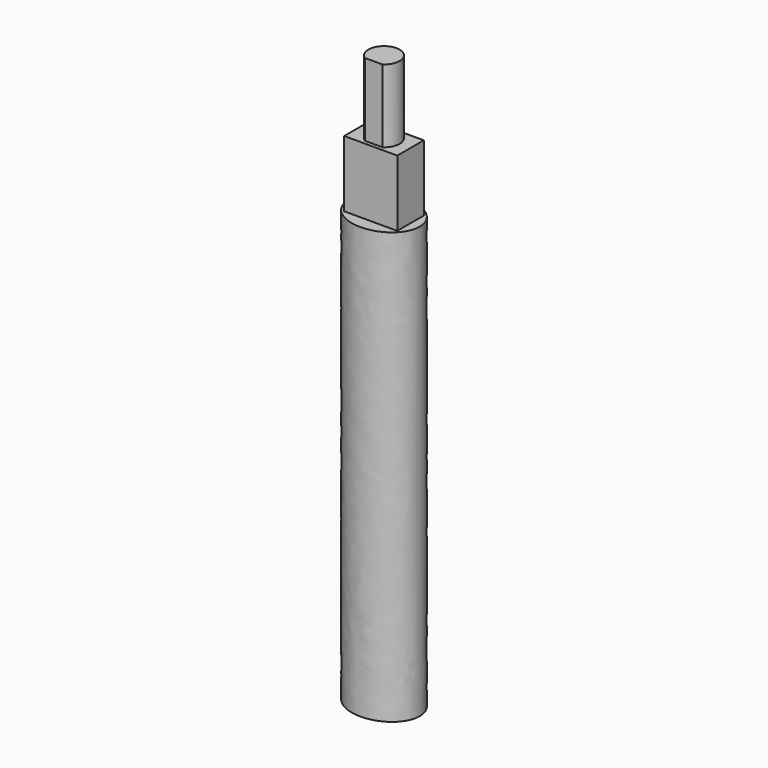
from build123d import *

# Parameters (mm, degrees)
F1_DEPTH = 65
F2_W     = 8
F2_H     = 5
F3_DEPTH = 10
F4_R     = 2.35
F5_DEPTH = 11
F7_DEPTH = 11


with BuildPart() as f1:
    # F0 (on Top) → F1 (new body)
    with BuildSketch(Plane.XY):
        with BuildLine():
            add(Edge.make_bspline(
                [(5.4, 0), (5.4, 7.707626), (-2.7, 3.853813), (-10.8, 0), (-2.7, -3.853813), (5.4, -7.707626), (5.4, 0)],
                knots=[0, 0, 0, 2.094395, 2.094395, 4.18879, 4.18879, 6.283185, 6.283185, 6.283185], degree=2, weights=[1, 0.5, 1, 0.5, 1, 0.5, 1]))
        make_face()
    extrude(amount=F1_DEPTH)

    # F2 (on face) → F3 (join)
    with BuildSketch(Plane.XY.offset(65)):
        Rectangle(F2_W, F2_H)
    extrude(amount=F3_DEPTH)

    # F4 (on face) → F5 (join)
    with BuildSketch(Plane.XY.offset(75)):
        Circle(F4_R)
    extrude(amount=F5_DEPTH)

    # F6 (on face) → F7 (cut)
    with BuildSketch(Plane.XY.offset(86)):
        with BuildLine():
            ThreePointArc((-1.326235, -1.94), (-0.694082, -2.245161), (0, -2.35))
            Line((0, -2.35), (0, -1.94))
            Line((0, -1.94), (-1.326235, -1.94))
        make_face()
        with BuildLine():
            Line((0, -1.94), (0, -2.35))
            ThreePointArc((0, -2.35), (0.694082, -2.245161), (1.326235, -1.94))
            Line((1.326235, -1.94), (0, -1.94))
        make_face()
    extrude(amount=-F7_DEPTH, mode=Mode.SUBTRACT)


solid = f1.part
